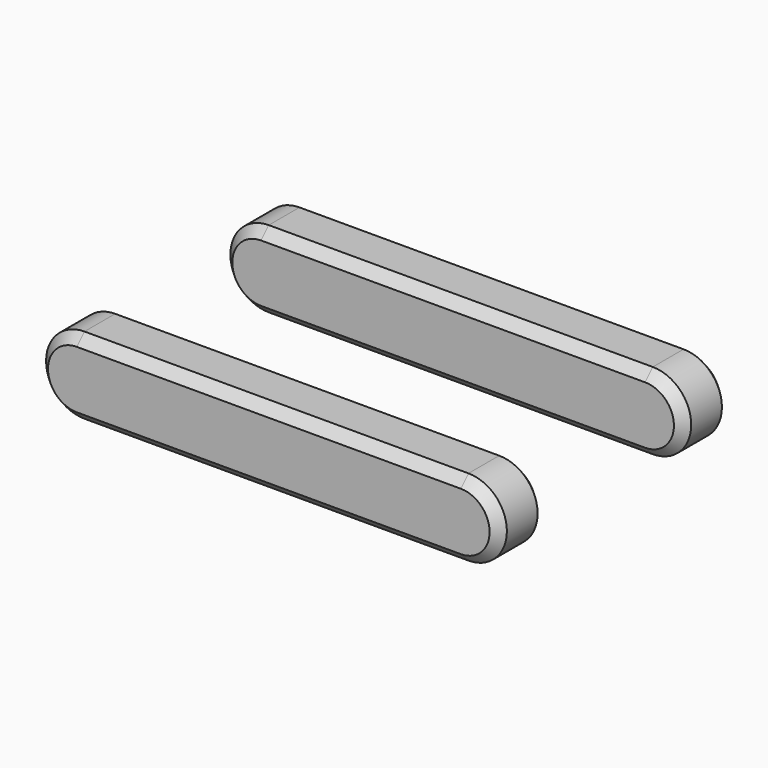
from build123d import *

# Parameters (mm, degrees)
F1_DEPTH = 750
F2_DEPTH = 450
F3_SIZE  = 50


with BuildPart() as f1:
    # F0 (on Front) → F1 (new body, symmetric)
    with BuildSketch(Plane.XZ):
        with BuildLine():
            Line((1000, 200), (-1000, 200))
            ThreePointArc((-1000, 200), (-1200, 0), (-1000, -200))
            Line((-1000, -200), (1000, -200))
            ThreePointArc((1000, -200), (1200, 0), (1000, 200))
        make_face()
    extrude(amount=F1_DEPTH, both=True)

    # F0 (on Front) → F2 (cut, symmetric)
    with BuildSketch(Plane.XZ):
        with BuildLine():
            Line((1000, 200), (-1000, 200))
            ThreePointArc((-1000, 200), (-1200, 0), (-1000, -200))
            Line((-1000, -200), (1000, -200))
            ThreePointArc((1000, -200), (1200, 0), (1000, 200))
        make_face()
    extrude(amount=F2_DEPTH, both=True, mode=Mode.SUBTRACT)

    # F3
    f3_edges = [f1.edges().sort_by_distance(p)[0] for p in [
        (0, -750, 200),
        (-1200, -750, 0),
        (0, -750, -200),
        (1200, -750, 0),
        (0, 450, 200),
        (0, 750, 200),
        (0, -450, 200),
    ]]
    chamfer(f3_edges, length=F3_SIZE)


solid = f1.part
